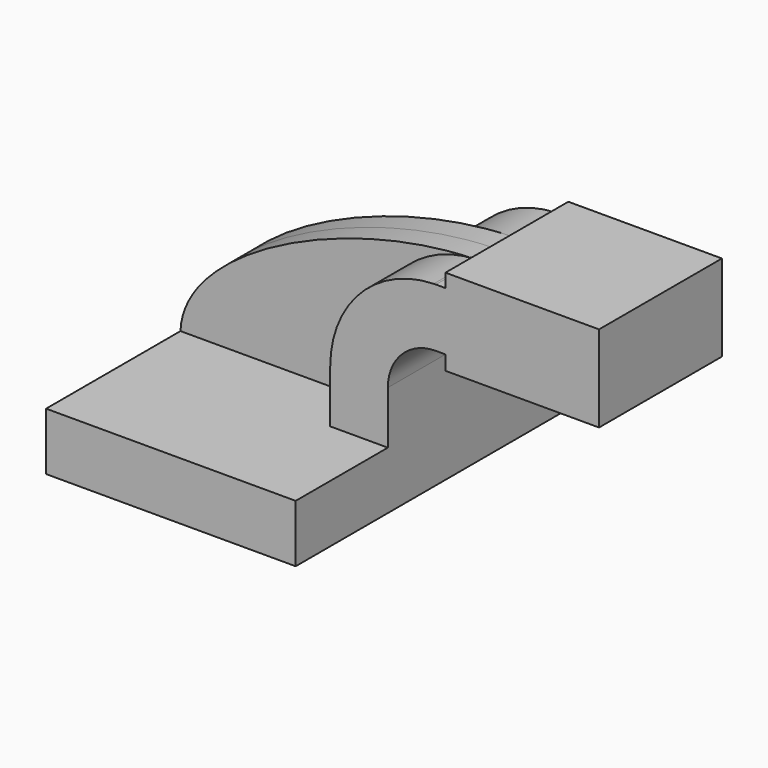
from build123d import *

# Parameters (mm, degrees)
F1_DEPTH = 63.5
F2_DEPTH = 25.4
F3_DEPTH = 7.9375


with BuildPart() as f1:
    # F0 (on Front) → F1 (new body, symmetric)
    with BuildSketch(Plane.XZ):
        Polygon((22.225, 9.525), (-41.275, 9.525), (-41.275, -9.525), (41.275, -9.525), (41.275, 9.525), align=None)
    extrude(amount=F1_DEPTH, both=True)

    # F0 (on Front) → F2 (join, symmetric)
    with BuildSketch(Plane.XZ):
        Polygon((60.325, 66.675), (60.325, 62.1792), (60.325, 42.8752), (60.325, 38.1), (111.125, 38.1), (111.125, 66.675), align=None)
        with BuildLine():
            ThreePointArc((57.15, 62.1792), (56.801973539, 62.1749562641), (56.4540060954, 62.1672695807))
            add(Edge.make_bspline(
                [(56.4540060954, 62.1672695807), (56.6863388741, 62.1719788985), (56.9183402764, 62.1759570041), (57.15, 62.1792)],
                knots=[111.0211671493, 111.0211671493, 111.0211671493, 111.0211671493, 111.6241255403, 111.6241255403, 111.6241255403, 111.6241255403], degree=3))
        make_face()
        Polygon((22.225, 9.525), (-41.275, 9.525), (-41.275, -9.525), (41.275, -9.525), (41.275, 9.525), align=None)
        with BuildLine():
            Line((22.225, 27.0002), (22.225, 9.525))
            Line((22.225, 9.525), (41.275, 9.525))
            Line((41.275, 9.525), (41.275, 27.0002))
            ThreePointArc((41.275, 27.0002), (45.9246798487, 38.2255201513), (57.15, 42.8752))
            Line((57.15, 42.8752), (60.325, 42.8752))
            Line((60.325, 42.8752), (60.325, 62.1792))
            Line((60.325, 62.1792), (57.15, 62.1792))
            add(Edge.make_bspline(
                [(56.4540060954, 62.1672695807), (56.6863388741, 62.1719788985), (56.9183402764, 62.1759570041), (57.15, 62.1792)],
                knots=[111.0211671493, 111.0211671493, 111.0211671493, 111.0211671493, 111.6241255403, 111.6241255403, 111.6241255403, 111.6241255403], degree=3))
            ThreePointArc((56.4540060954, 62.1672695807), (32.1950026375, 51.5376593284), (22.225, 27.0002))
        make_face()
    extrude(amount=F2_DEPTH, both=True)

    # F0 (on Front) → F3 (join, symmetric)
    with BuildSketch(Plane.XZ):
        with BuildLine():
            add(Edge.make_bspline(
                [(-41.275, 9.525), (-40.3382838468, 35.6428227529), (13.6751731786, 61.3001550814), (56.4540060954, 62.1672695807)],
                knots=[0, 0, 0, 0, 111.0211671493, 111.0211671493, 111.0211671493, 111.0211671493], degree=3))
            Line((-41.275, 9.525), (22.225, 9.525))
            Line((22.225, 9.525), (22.225, 27.0002))
            ThreePointArc((22.225, 27.0002), (32.1950026375, 51.5376593284), (56.4540060954, 62.1672695807))
        make_face()
    extrude(amount=F3_DEPTH, both=True)


solid = f1.part
